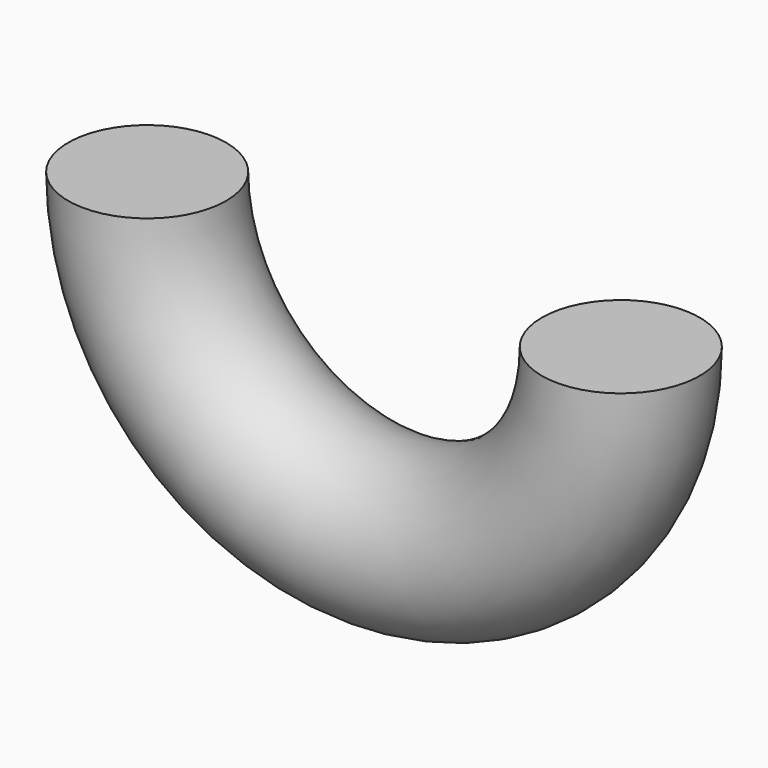
from build123d import *

# Parameters (mm, degrees)
F0_R     = 5
F1_ANGLE = 180


with BuildPart() as f1:
    # F0 (on Top) → F1 (revolve)
    with BuildSketch(Plane.XY):
        with Locations((-15, 0)):
            Circle(F0_R)
    revolve(axis=Axis((0, -5.508034, 0), (0, -1, 0)), revolution_arc=F1_ANGLE)


solid = f1.part
